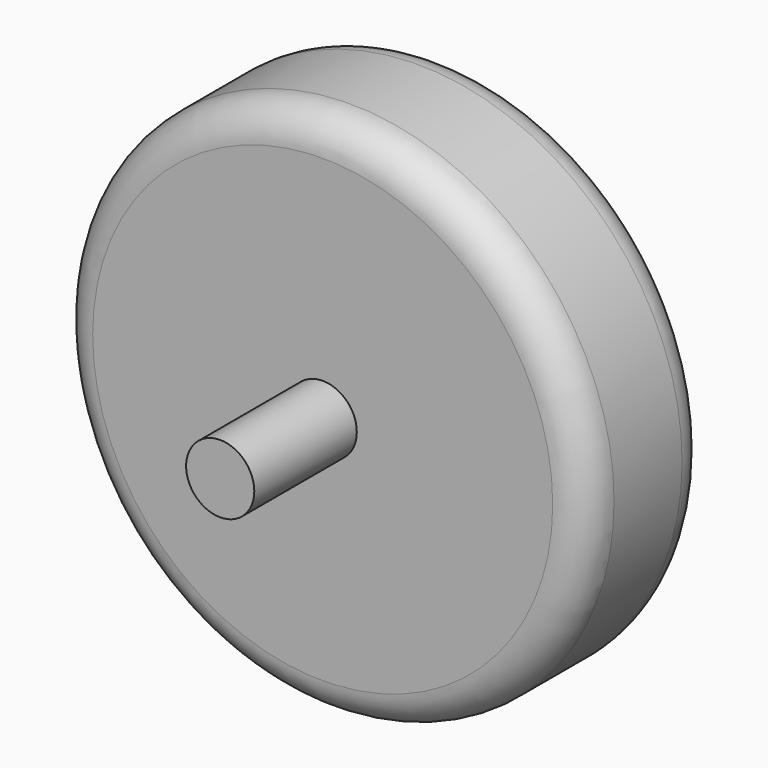
from build123d import *

# Parameters (mm, degrees)
F0_R     = 3.175
F1_DEPTH = 38.1
F3_START = 11.8872
F2_R     = 24.60625
F3_DEPTH = 14.2748
F4_R     = 3.175
F5_R     = 3.175


with BuildPart() as f1:
    # F0 (on Front) → F1 (new body)
    with BuildSketch(Plane.XZ):
        Circle(F0_R)
    extrude(amount=F1_DEPTH)

    # F2 (on Front) → F3 (join)
    with BuildSketch(Plane.XZ.offset(F3_START)):
        Circle(F2_R)
    extrude(amount=F3_DEPTH)

    # F4
    f4_edges = [f1.edges().sort_by_distance(p)[0] for p in [
        (-24.60625, -26.162, 0),
    ]]
    fillet(f4_edges, radius=F4_R)

    # F5
    f5_edges = [f1.edges().sort_by_distance(p)[0] for p in [
        (-24.60625, -11.8872, 0),
    ]]
    fillet(f5_edges, radius=F5_R)


solid = f1.part
